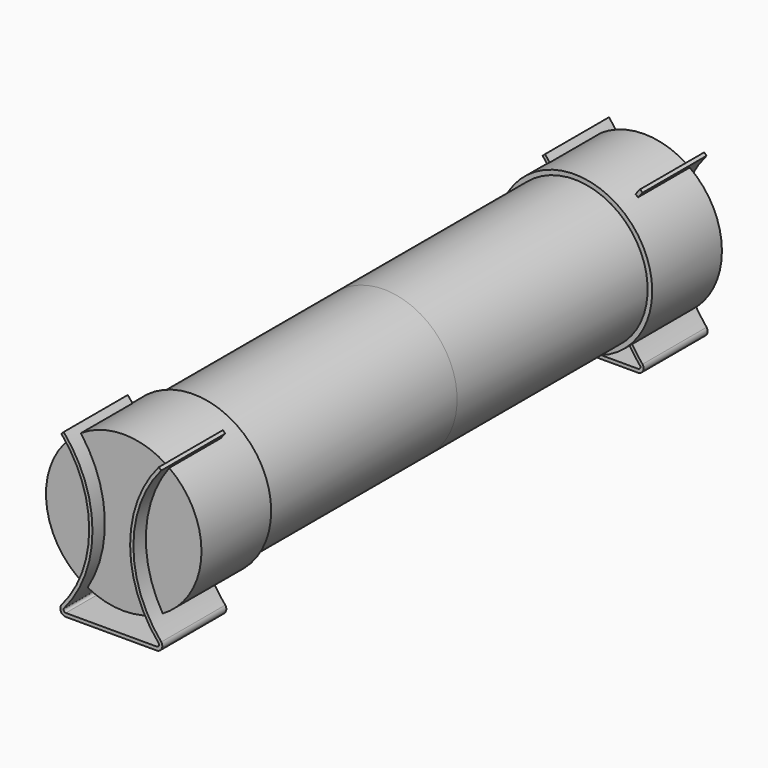
from build123d import *

# Parameters (mm, degrees)
F1_DEPTH = 17.5
F3_R     = 17
F4_DEPTH = 19.05
F5_R     = 16
F6_DEPTH = 52.07


with BuildPart() as f1:
    # F0 (on Front) → F1 (new body)
    with BuildSketch(Plane.XZ):
        with BuildLine():
            Line((-19.309289, 16.501859), (-19.833244, 16.992354))
            ThreePointArc((-19.833244, 16.992354), (-26.117, 0), (-19.833244, -16.992354))
            Line((-19.833244, -16.992354), (-19.309289, -16.501859))
            ThreePointArc((-19.309289, -16.501859), (-25.4, 0), (-19.309289, 16.501859))
        make_face()
        with BuildLine():
            Line((-19.309289, -16.501859), (-19.833244, -16.992354))
            ThreePointArc((-19.833244, -16.992354), (-19.866141, -17.4713), (-20.287276, -17.701772))
            Line((-20.287276, -17.701772), (-40.180276, -17.701772))
            Line((-40.180276, -17.701772), (-40.180276, -18.466977))
            Line((-40.180276, -18.466977), (-20.287276, -18.466977))
            ThreePointArc((-20.287276, -18.466977), (-19.214267, -17.775067), (-19.309289, -16.501859))
        make_face()
        with BuildLine():
            Line((-40.180276, -18.466977), (-40.180276, -17.701772))
            ThreePointArc((-40.180276, -17.701772), (-40.60141, -17.4713), (-40.634307, -16.992354))
            Line((-40.634307, -16.992354), (-41.158262, -16.501859))
            ThreePointArc((-41.158262, -16.501859), (-41.253285, -17.775067), (-40.180276, -18.466977))
        make_face()
        with BuildLine():
            Line((-41.158262, -16.501859), (-40.634307, -16.992354))
            ThreePointArc((-40.634307, -16.992354), (-34.350551, 0), (-40.634307, 16.992354))
            Line((-40.634307, 16.992354), (-41.158262, 16.501859))
            ThreePointArc((-41.158262, 16.501859), (-35.067551, 0), (-41.158262, -16.501859))
        make_face()
    extrude(amount=F1_DEPTH)

    # F3 (on offset) → F4 (join)
    with BuildSketch(Plane.XZ.offset(14.1)):
        with Locations((-30.233776, 1.533023)):
            Circle(F3_R)
    extrude(amount=-F4_DEPTH)

    # F5 (on face) → F6 (join)
    with BuildSketch(Plane(origin=(0, 4.95, 0), x_dir=(-1, 0, 0), z_dir=(0, 1, 0))):
        with Locations((30.233776, 1.533023)):
            Circle(F5_R)
    extrude(amount=F6_DEPTH)

    # F8: F1 across plane


with BuildPart() as f1_1:
    add(f1.part)
    add(f1.part.mirror(Plane.XZ.offset(-57.02)))


solid = f1_1.part
